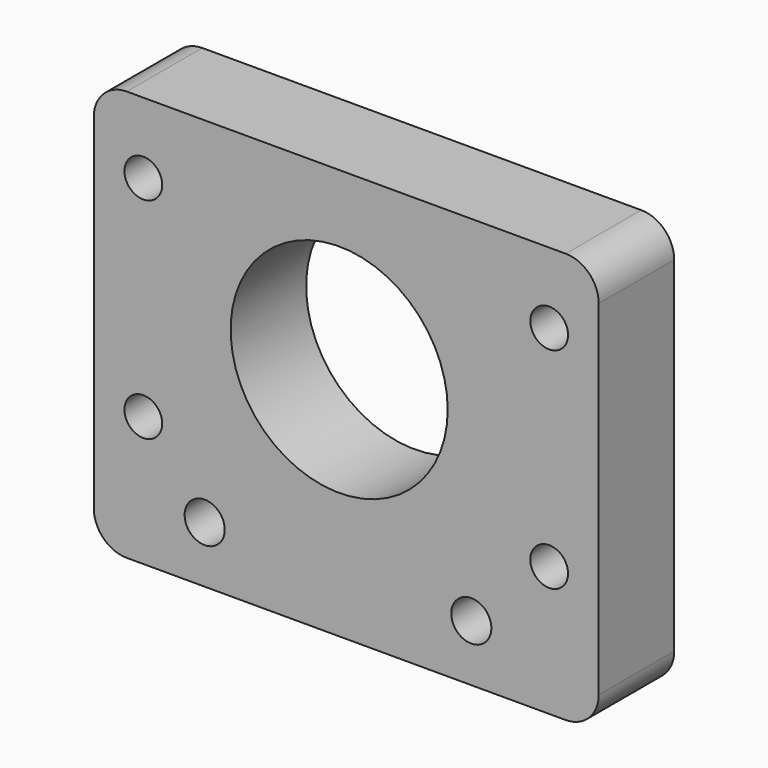
from build123d import *

# Parameters (mm, degrees)
F0_R     = 4.25
F0_R_2   = 4
F0_R_3   = 23
F0_R_4   = 3.35
F1_DEPTH = 20


with BuildPart() as f1:
    # F0 (on Front) → F1 (new body)
    with BuildSketch(Plane.XZ):
        with BuildLine():
            Line((76.5, 10), (-16.5, 10))
            ThreePointArc((-16.5, 10), (-21.449747, 7.949747), (-23.5, 3))
            Line((-23.5, 3), (-23.5, -70))
            ThreePointArc((-23.5, -70), (-21.449747, -74.949747), (-16.5, -77))
            Line((-16.5, -77), (76.5, -77))
            ThreePointArc((76.5, -77), (81.449747, -74.949747), (83.5, -70))
            Line((83.5, -70), (83.5, 3))
            ThreePointArc((83.5, 3), (81.449747, 7.949747), (76.5, 10))
        make_face()
        with Locations((0, -65)):
            Circle(F0_R, mode=Mode.SUBTRACT)
        with Locations((-13, -49.5)):
            Circle(F0_R_2, mode=Mode.SUBTRACT)
        with Locations((56.5, -65)):
            Circle(F0_R, mode=Mode.SUBTRACT)
        with Locations((73, -49.5)):
            Circle(F0_R_2, mode=Mode.SUBTRACT)
        with Locations((28.5, -27.25)):
            Circle(F0_R_3, mode=Mode.SUBTRACT)
        with Locations((-13, -5)):
            Circle(F0_R_2, mode=Mode.SUBTRACT)
        Circle(F0_R_4, mode=Mode.SUBTRACT)
        with Locations((56.5, 0)):
            Circle(F0_R_4, mode=Mode.SUBTRACT)
        with Locations((73, -5)):
            Circle(F0_R_2, mode=Mode.SUBTRACT)
        Circle(F0_R_4)
        with Locations((56.5, 0)):
            Circle(F0_R_4)
    extrude(amount=F1_DEPTH)


solid = f1.part
